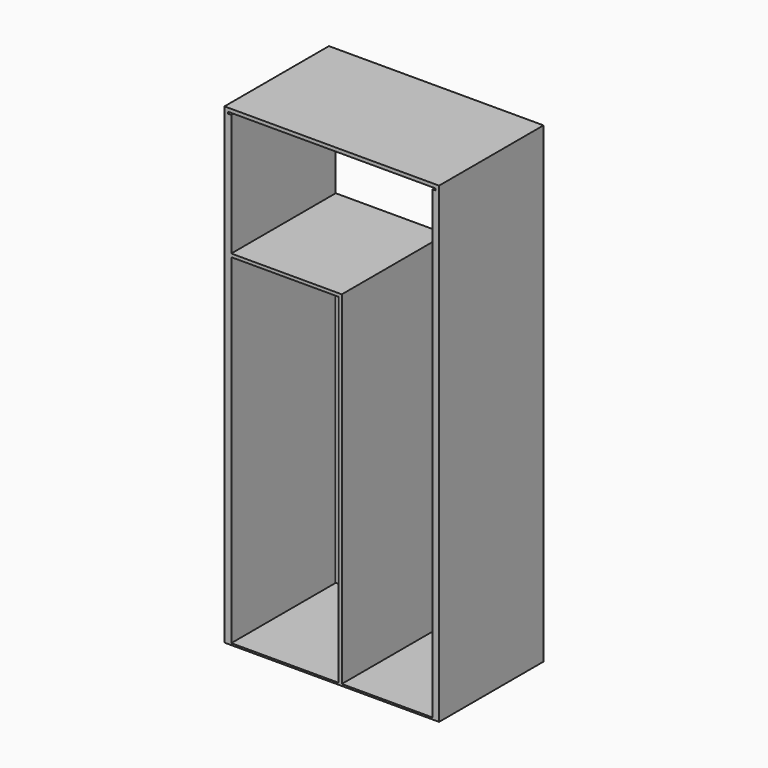
from build123d import *

# Parameters (mm, degrees)
F0_W      = 120
F0_H      = 73
F1_DEPTH  = 1
F2_W      = 2
F2_H      = 73
F3_DEPTH  = 261
F4_W      = 120
F4_H      = 73
F5_DEPTH  = 2
F6_W      = 1.8
F6_H      = 73
F7_DEPTH  = 260
F9_W      = 1.8
F9_H      = 73
F10_DEPTH = 190
F11_W     = 60
F11_H     = 73
F11_W_2   = 1.8
F12_DEPTH = 1.8


with BuildPart() as f1:
    # F0 (on Top) → F1 (new body)
    with BuildSketch(Plane.XY):
        with Locations((-40, 36.5)):
            Rectangle(F0_W, F0_H)
    extrude(amount=F1_DEPTH)

    # F2 (on face) → F3 (join)
    with BuildSketch(Plane.XY.offset(1)):
        with Locations((-99, 36.5)):
            Rectangle(F2_W, F2_H)
        with Locations((19, 36.5)):
            Rectangle(F2_W, F2_H)
    extrude(amount=F3_DEPTH)

    # F4 (on face) → F5 (join)
    with BuildSketch(Plane.XY.offset(262)):
        with Locations((-40, 36.5)):
            Rectangle(F4_W, F4_H)
    extrude(amount=F5_DEPTH)

    # F6 (on face) → F7 (join)
    with BuildSketch(Plane.XY.offset(1)):
        with Locations((-97.1, 36.5)):
            Rectangle(F6_W, F6_H)
        with Locations((17.1, 36.5)):
            Rectangle(F6_W, F6_H)
    extrude(amount=F7_DEPTH)

    # F9 (on face) → F10 (join)
    with BuildSketch(Plane.XY.offset(1)):
        with Locations((-35.3, 36.5)):
            Rectangle(F9_W, F9_H)
    extrude(amount=F10_DEPTH)

    # F11 (on face) → F12 (join)
    with BuildSketch(Plane.XY.offset(191)):
        with Locations((-66.2, 36.5)):
            Rectangle(F11_W, F11_H)
        with Locations((-35.3, 36.5)):
            Rectangle(F11_W_2, F11_H)
    extrude(amount=F12_DEPTH)


solid = f1.part
